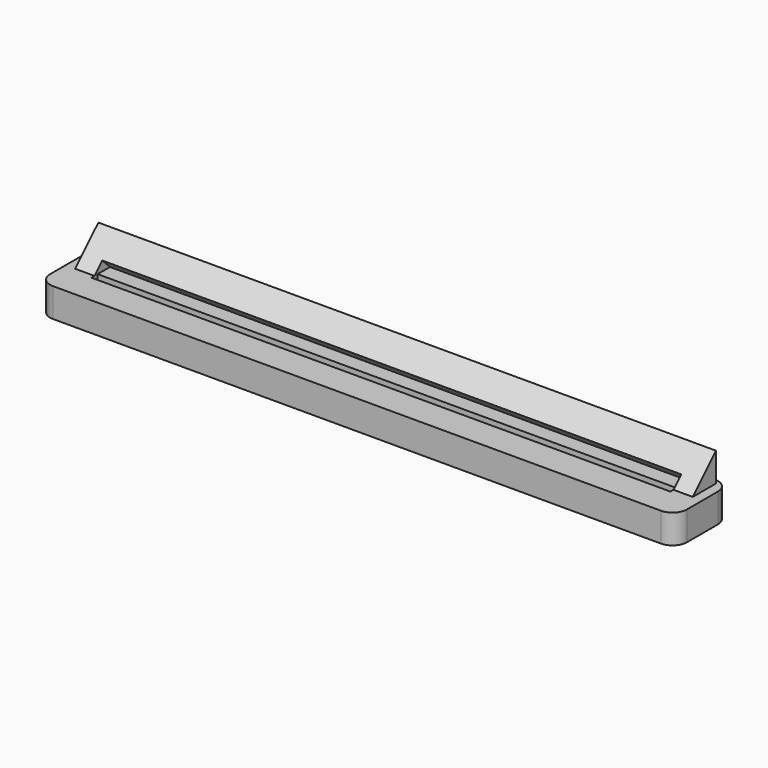
from build123d import *

# Parameters (mm, degrees)
SKETCH_W        = 64
SKETCH_H        = 6
SKETCH_W_2      = 60
SKETCH_H_2      = 2
PAD_DEPTH       = 6
POCKET_DEPTH    = 64.001
SKETCH002_W     = 60
SKETCH002_H     = 2.8284271247
POCKET001_DEPTH = 4.2436406871
SKETCH003_W     = 60
SKETCH003_H     = 0.8284271247
POCKET002_DEPTH = 2.8294271247
SKETCH004_W     = 66
SKETCH004_H     = 7
SKETCH004_W_2   = 60
SKETCH004_H_2   = 0.8
PAD001_DEPTH    = 3
FILLET_R        = 1.5


with BuildPart() as body:
    # Sketch → Pad (new body)
    with BuildSketch(Plane.XY):
        Rectangle(SKETCH_W, SKETCH_H)
        Rectangle(SKETCH_W_2, SKETCH_H_2, mode=Mode.SUBTRACT)
    extrude(amount=PAD_DEPTH)

    # Sketch001 (on Face2 of Pad) → Pocket (cut, through all)
    with BuildSketch(Plane.YZ.offset(32)):
        Polygon((-3, 0), (-3, 6), (3, 6), align=None)
    extrude(amount=-POCKET_DEPTH, mode=Mode.SUBTRACT)

    # Sketch002 (on Face5 of Pocket) → Pocket001 (cut, through all)
    with BuildSketch(Plane(origin=(0, -1.5, 1.5), x_dir=(1, 0, 0), z_dir=(0, -0.7071067812, 0.7071067812))):
        with Locations((0, 2.1213203436)):
            Rectangle(SKETCH002_W, SKETCH002_H)
    extrude(amount=-POCKET001_DEPTH, mode=Mode.SUBTRACT)

    # Sketch003 (on Face3 of Pocket001) → Pocket002 (cut, through all)
    with BuildSketch(Plane(origin=(0, 2.5, 2.5), x_dir=(1, 0, 0), z_dir=(0, -0.7071067812, -0.7071067812))):
        with Locations((0, -0.2928932188)):
            Rectangle(SKETCH003_W, SKETCH003_H)
    extrude(amount=-POCKET002_DEPTH, mode=Mode.SUBTRACT)


with BuildPart() as body001:
    # Sketch004 → Pad001 (new body)
    with BuildSketch(Plane.XY):
        Rectangle(SKETCH004_W, SKETCH004_H)
        Rectangle(SKETCH004_W_2, SKETCH004_H_2, mode=Mode.SUBTRACT)
    extrude(amount=PAD001_DEPTH)

    # Fillet
    fillet_edges = [body001.edges().sort_by_distance(p)[0] for p in [
        (-33, 3.5, 1.5),
        (-33, -3.5, 1.5),
        (33, 3.5, 1.5),
        (33, -3.5, 1.5),
    ]]
    fillet(fillet_edges, radius=FILLET_R)


solid = Compound([body.part, body001.part])
